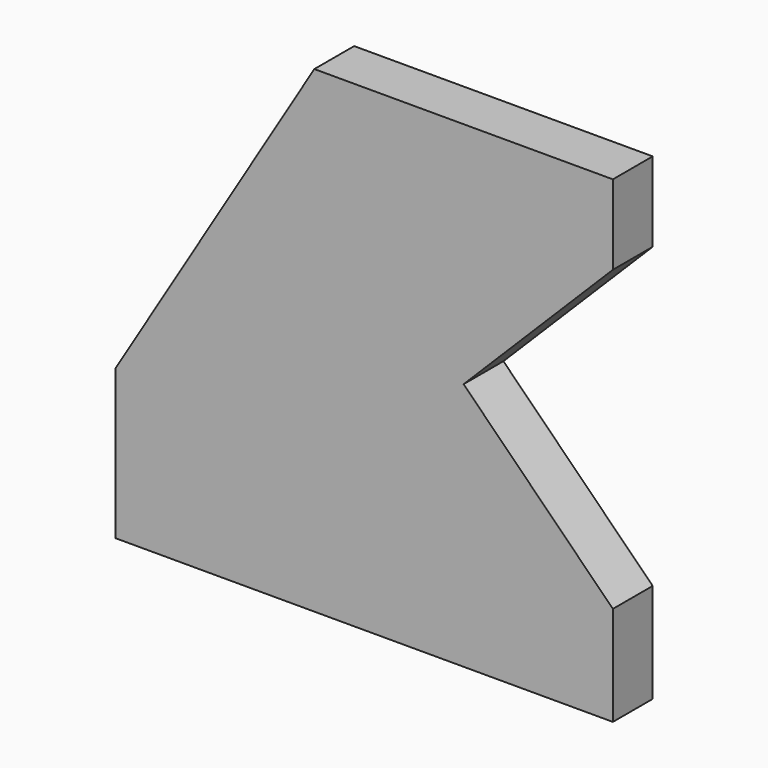
from build123d import *

# Parameters (mm, degrees)
F1_DEPTH = 5


with BuildPart() as f1:
    # F0 (on Front) → F1 (new body)
    with BuildSketch(Plane.XZ):
        Polygon((0, 15), (0, 0), (35, 0), (50, 0), (50, 10), (35, 25), (50, 40), (50, 48), (20, 48), align=None)
    extrude(amount=-F1_DEPTH)


solid = f1.part
